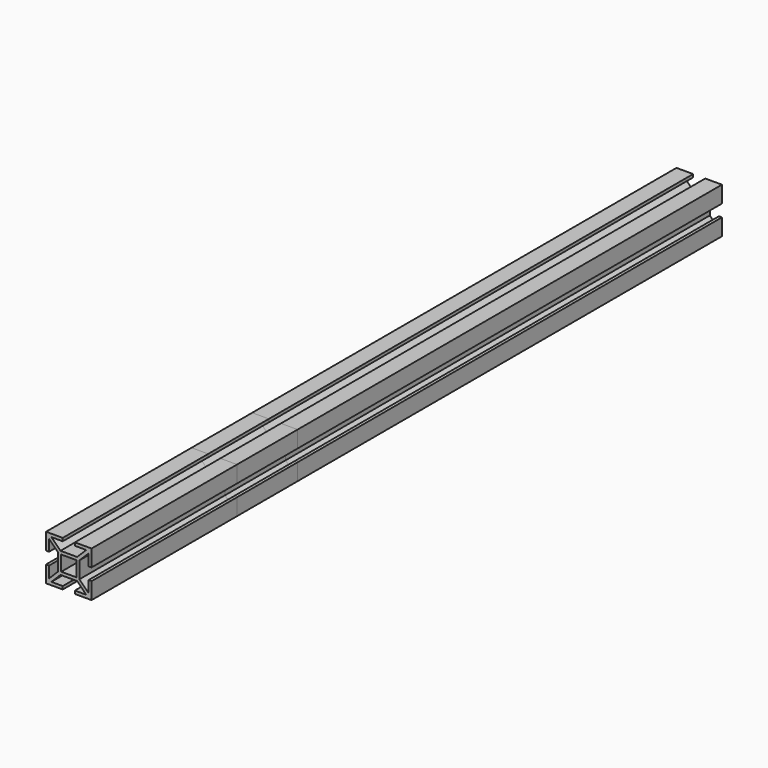
from build123d import *

# Parameters (mm, degrees)
F0_W     = 10
F0_H     = 10
F1_DEPTH = 520
F2_DEPTH = 400
F3_DEPTH = 350


with BuildPart() as f1:
    # F0 (on Front) → F1 (new body)
    with BuildSketch(Plane.XZ):
        Polygon((-4, 15), (-15, 15), (-15, 4), (-13, 4), (-13, 11.5), (-7, 5.5), (-7, -5.5), (-13, -11.5), (-13, -4), (-15, -4), (-15, -15), (-4, -15), (-4, -13), (-11.5, -13), (-5.5, -7), (5.5, -7), (11.5, -13), (4, -13), (4, -15), (15, -15), (15, -4), (13, -4), (13, -11.5), (7, -5.5), (7, 5.5), (13, 11.5), (13, 4), (15, 4), (15, 15), (4, 15), (4, 13), (11.5, 13), (5.5, 7), (-5.5, 7), (-11.5, 13), (-4, 13), align=None)
        Rectangle(F0_W, F0_H, mode=Mode.SUBTRACT)
    extrude(amount=F1_DEPTH)


with BuildPart() as f2:
    # F0 (on Front) → F2 (new body)
    with BuildSketch(Plane.XZ):
        Polygon((-4, 15), (-15, 15), (-15, 4), (-13, 4), (-13, 11.5), (-7, 5.5), (-7, -5.5), (-13, -11.5), (-13, -4), (-15, -4), (-15, -15), (-4, -15), (-4, -13), (-11.5, -13), (-5.5, -7), (5.5, -7), (11.5, -13), (4, -13), (4, -15), (15, -15), (15, -4), (13, -4), (13, -11.5), (7, -5.5), (7, 5.5), (13, 11.5), (13, 4), (15, 4), (15, 15), (4, 15), (4, 13), (11.5, 13), (5.5, 7), (-5.5, 7), (-11.5, 13), (-4, 13), align=None)
        Rectangle(F0_W, F0_H, mode=Mode.SUBTRACT)
    extrude(amount=F2_DEPTH)


with BuildPart() as f3:
    # F0 (on Front) → F3 (new body)
    with BuildSketch(Plane.XZ):
        Polygon((-4, 15), (-15, 15), (-15, 4), (-13, 4), (-13, 11.5), (-7, 5.5), (-7, -5.5), (-13, -11.5), (-13, -4), (-15, -4), (-15, -15), (-4, -15), (-4, -13), (-11.5, -13), (-5.5, -7), (5.5, -7), (11.5, -13), (4, -13), (4, -15), (15, -15), (15, -4), (13, -4), (13, -11.5), (7, -5.5), (7, 5.5), (13, 11.5), (13, 4), (15, 4), (15, 15), (4, 15), (4, 13), (11.5, 13), (5.5, 7), (-5.5, 7), (-11.5, 13), (-4, 13), align=None)
        Rectangle(F0_W, F0_H, mode=Mode.SUBTRACT)
    extrude(amount=F3_DEPTH)


solid = Compound([f1.part, f2.part, f3.part])
